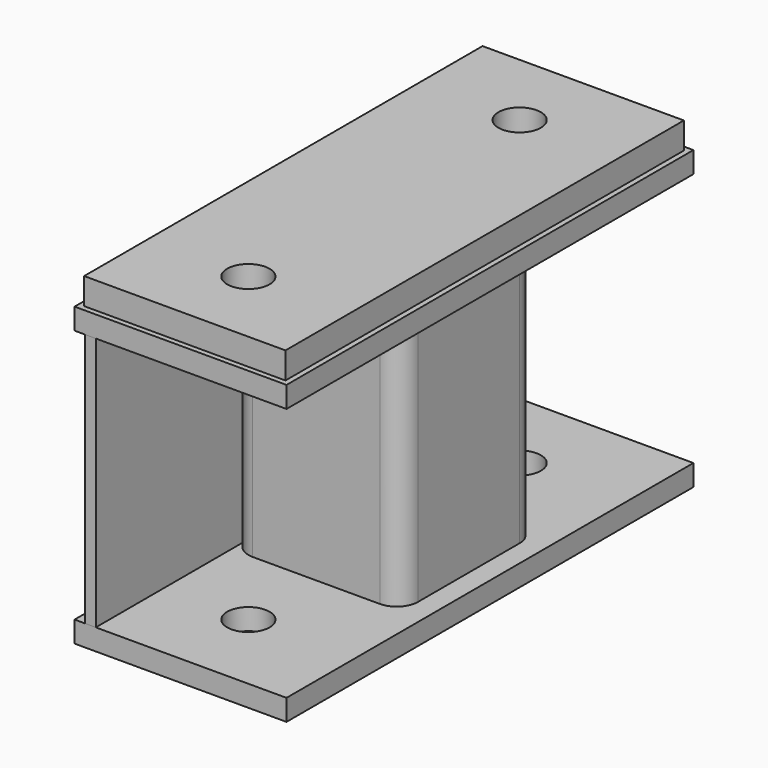
from build123d import *

# Parameters (mm, degrees)
F0_W      = 127
F0_H      = 304.8
F0_R      = 12.7
F1_DEPTH  = 12.7
F3_DEPTH  = 152.4
F7_W      = 304.8
F7_H      = 152.4
F8_DEPTH  = 6.35
F9_W      = 120.65
F9_H      = 298.45
F9_R      = 12.7
F10_DEPTH = 15.875


with BuildPart() as f1:
    # F0 (on Top) → F1 (new body)
    with BuildSketch(Plane.XY):
        Rectangle(F0_W, F0_H)
        with Locations((0, -101.6)):
            Circle(F0_R, mode=Mode.SUBTRACT)
        with Locations((0, 101.6)):
            Circle(F0_R, mode=Mode.SUBTRACT)
    extrude(amount=-F1_DEPTH)


with BuildPart() as f3:
    # F2 (on face) → F3 (new body)
    with BuildSketch(Plane.XY):
        with BuildLine():
            Line((38.1, 50.8), (-38.1, 50.8))
            ThreePointArc((-38.1, 50.8), (-47.0802561211, 47.0802561211), (-50.8, 38.1))
            Line((-50.8, 38.1), (-50.8, -38.1))
            ThreePointArc((-50.8, -38.1), (-47.0802561211, -47.0802561211), (-38.1, -50.8))
            Line((-38.1, -50.8), (38.1, -50.8))
            ThreePointArc((38.1, -50.8), (47.0802561211, -47.0802561211), (50.8, -38.1))
            Line((50.8, -38.1), (50.8, 38.1))
            ThreePointArc((50.8, 38.1), (47.0802561211, 47.0802561211), (38.1, 50.8))
        make_face()
        with BuildLine():
            ThreePointArc((-44.45, 38.1), (-42.5901280605, 42.5901280605), (-38.1, 44.45))
            Line((-38.1, 44.45), (38.1, 44.45))
            ThreePointArc((38.1, 44.45), (42.5901280605, 42.5901280605), (44.45, 38.1))
            Line((44.45, 38.1), (44.45, -38.1))
            ThreePointArc((44.45, -38.1), (42.5901280605, -42.5901280605), (38.1, -44.45))
            Line((38.1, -44.45), (-38.1, -44.45))
            ThreePointArc((-38.1, -44.45), (-42.5901280605, -42.5901280605), (-44.45, -38.1))
            Line((-44.45, -38.1), (-44.45, 38.1))
        make_face(mode=Mode.SUBTRACT)
    extrude(amount=F3_DEPTH)


with BuildPart() as f6_1:
    # F6: instance of F1
    add(f1.part.mirror(Plane.XY.offset(76.2)))


with BuildPart() as f8:
    # F7 (on face) → F8 (new body)
    with BuildSketch(Plane(origin=(-50.8, 0, 0), x_dir=(0, -1, 0), z_dir=(-1, 0, 0))):
        with Locations((0, 76.2)):
            Rectangle(F7_W, F7_H)
    extrude(amount=F8_DEPTH)


with BuildPart() as f10:
    # F9 (on face) → F10 (new body)
    with BuildSketch(Plane.XY.offset(165.1)):
        Rectangle(F9_W, F9_H)
        with Locations((0, -101.6)):
            Circle(F9_R, mode=Mode.SUBTRACT)
        with Locations((0, 101.6)):
            Circle(F9_R, mode=Mode.SUBTRACT)
    extrude(amount=F10_DEPTH)


solid = Compound([f1.part, f3.part, f6_1.part, f8.part, f10.part])
